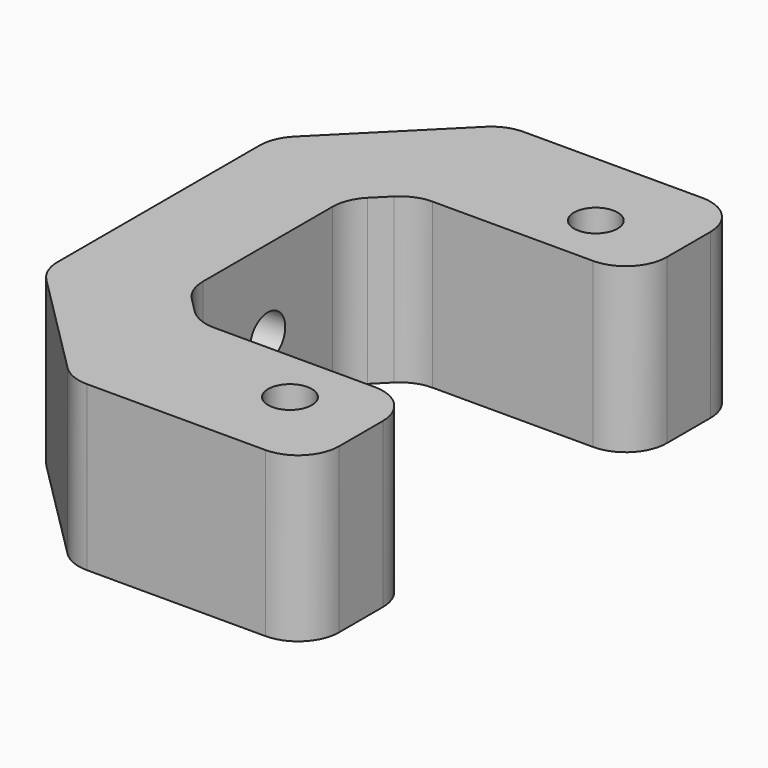
from build123d import *

# Parameters (mm, degrees)
SKETCH_R     = 1.6
PAD_DEPTH    = 6
SKETCH001_R  = 1.6
POCKET_DEPTH = 8.001
FILLET_R     = 3


with BuildPart() as part:
    # Sketch → Pad (new body, symmetric)
    with BuildSketch(Plane.XY):
        Polygon((1.514719, 20), (18.828427, 20), (18.828427, 10), (6.828427, 10), (2.828427, 10), (0, 7.171573), (0, -7.171573), (2.828427, -10), (6.828427, -10), (18.828427, -10), (18.828427, -20), (1.514719, -20), (-8, -10.485281), (-8, 10.485281), align=None)
        with Locations((12.828427, 14)):
            Circle(SKETCH_R, mode=Mode.SUBTRACT)
        with Locations((12.828427, -14)):
            Circle(SKETCH_R, mode=Mode.SUBTRACT)
    extrude(amount=PAD_DEPTH, both=True)

    # Sketch001 → Pocket (cut, through all)
    with BuildSketch(Plane.YZ):
        Circle(SKETCH001_R)
    extrude(amount=-POCKET_DEPTH, mode=Mode.SUBTRACT)

    # Fillet
    fillet_edges = [part.edges().sort_by_distance(p)[0] for p in [
        (18.828427, -20, 0),
        (18.828427, -10, 0),
        (18.828427, 10, 0),
        (18.828427, 20, 0),
        (1.514719, -20, 0),
        (-8, -10.485281, 0),
        (-8, 10.485281, 0),
        (1.514719, 20, 0),
        (2.828427, 10, 0),
        (0, 7.171573, 0),
        (0, -7.171573, 0),
        (2.828427, -10, 0),
    ]]
    fillet(fillet_edges, radius=FILLET_R)


solid = part.part
